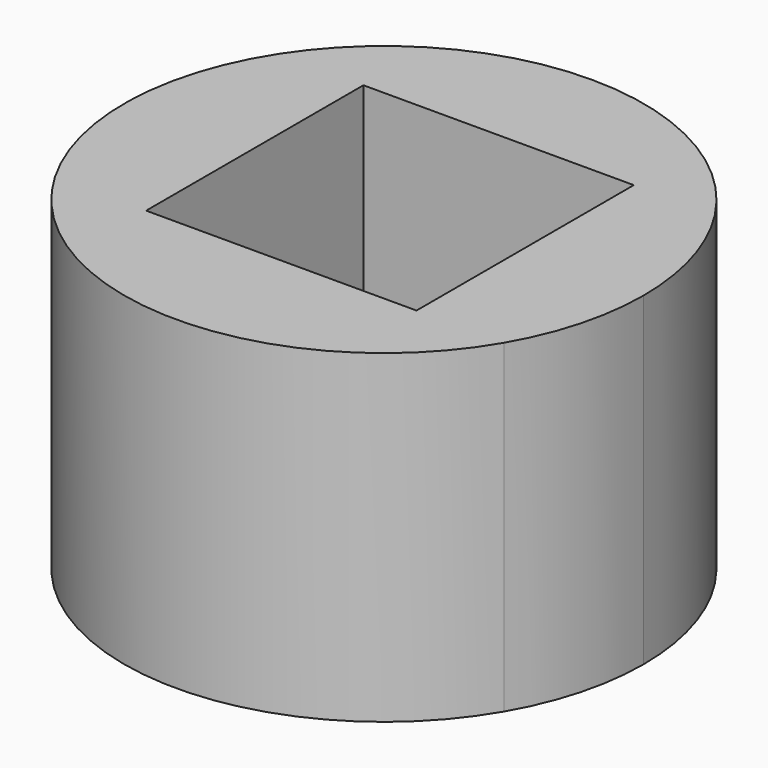
from build123d import *

# Parameters (mm, degrees)
F1_DEPTH = 10


with BuildPart() as f1:
    # F0 (on Top) → F1 (new body)
    with BuildSketch(Plane.XY):
        with BuildLine():
            ThreePointArc((-34.39461, 18.441028), (-33.584896, 20.381285), (-33.308632, 22.465491))
            ThreePointArc((-33.308632, 22.465491), (-33.635359, 24.728429), (-34.588853, 26.806526))
            Line((-34.588853, 26.806526), (-37.084874, 26.806526))
            Line((-37.084874, 26.806526), (-37.084874, 18.441028))
            Line((-37.084874, 18.441028), (-34.39461, 18.441028))
        make_face()
        with BuildLine():
            Line((-37.084874, 26.806526), (-34.588853, 26.806526))
            ThreePointArc((-34.588853, 26.806526), (-41.308632, 30.465491), (-48.02841, 26.806526))
            Line((-48.02841, 26.806526), (-45.413233, 26.806526))
            Line((-45.413233, 26.806526), (-37.084874, 26.806526))
        make_face()
        with BuildLine():
            ThreePointArc((-48.222653, 18.441028), (-41.308632, 14.465491), (-34.39461, 18.441028))
            Line((-34.39461, 18.441028), (-37.084874, 18.441028))
            Line((-37.084874, 18.441028), (-45.413233, 18.441028))
            Line((-45.413233, 18.441028), (-48.222653, 18.441028))
        make_face()
        with BuildLine():
            Line((-45.413233, 26.806526), (-48.02841, 26.806526))
            ThreePointArc((-48.02841, 26.806526), (-49.306476, 22.651198), (-48.222653, 18.441028))
            Line((-48.222653, 18.441028), (-45.413233, 18.441028))
            Line((-45.413233, 18.441028), (-45.413233, 26.806526))
        make_face()
    extrude(amount=F1_DEPTH)


solid = f1.part
